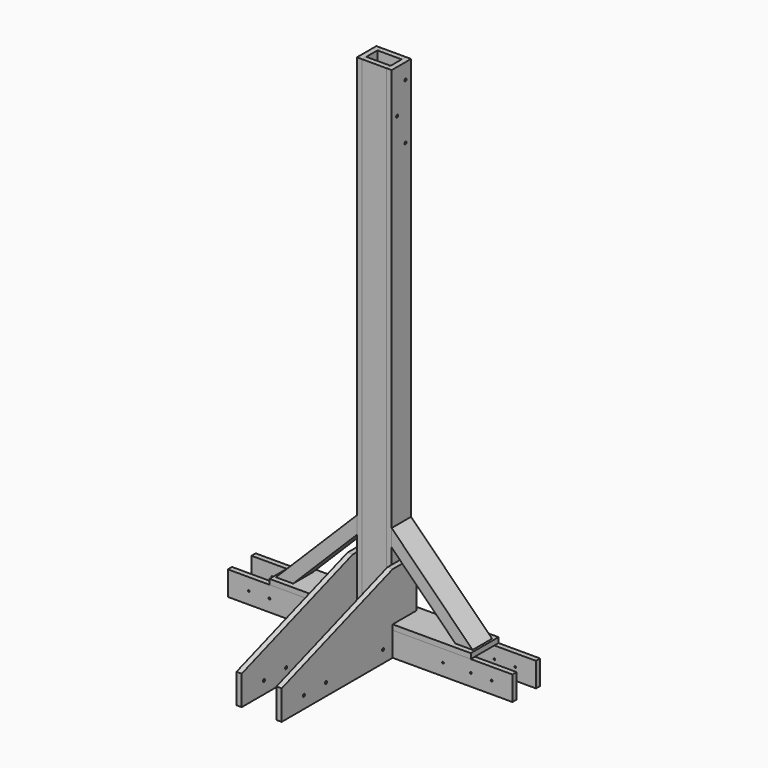
from build123d import *

# Parameters (mm, degrees)
F0_W          = 88.9
F0_H          = 19.05
F1_DEPTH      = 1879.6
F2_W          = 19.05
F2_H          = 88.9
F3_DEPTH      = 1879.6
F4_W          = 1041.4
F4_H          = 19.05
F5_DEPTH      = 88.9
F6_W          = 304.8
F6_H          = 127
F7_DEPTH      = 19.05
F9_DEPTH      = 44.45
F9_DEPTH_BACK = 44.45
F11_DEPTH     = 19.05
F13_DEPTH     = 19.05
F14_R         = 3.175
F15_DEPTH     = 127.001
F16_R         = 3.175
F17_DEPTH     = 635.001
F18_R         = 4.7625
F19_DEPTH     = 603.251
F20_R         = 4.7625
F21_DEPTH     = 25.4
F22_R         = 4.7625
F23_DEPTH     = 25.4
F24_R         = 4.7625
F25_DEPTH     = 25.4


with BuildPart() as f1:
    # F0 (on Top) → F1 (new body)
    with BuildSketch(Plane.XY):
        with Locations((0, 34.925)):
            Rectangle(F0_W, F0_H)
    extrude(amount=F1_DEPTH)

    # F16 (on face) → F17 (cut, through all)
    with BuildSketch(Plane(origin=(0, 63.5, 0), x_dir=(-1, 0, 0), z_dir=(0, 1, 0))):
        with Locations((-444.5, 44.45)):
            Circle(F16_R)
        with Locations((-368.3, 44.45)):
            Circle(F16_R)
        with Locations((-266.7, 44.45)):
            Circle(F16_R)
        with Locations((266.7, 44.45)):
            Circle(F16_R)
        with Locations((368.3, 44.45)):
            Circle(F16_R)
        with Locations((444.5, 44.45)):
            Circle(F16_R)
    extrude(amount=-F17_DEPTH, mode=Mode.SUBTRACT)

    # F20 (on face) → F21 (cut)
    with BuildSketch(Plane(origin=(-82.55, 0, 0), x_dir=(0, -1, 0), z_dir=(-1, 0, 0))):
        with Locations((107.95, 44.45)):
            Circle(F20_R)
        with Locations((368.3, 44.45)):
            Circle(F20_R)
        with Locations((469.9, 44.45)):
            Circle(F20_R)
    extrude(amount=-F21_DEPTH, mode=Mode.SUBTRACT)


with BuildPart() as f1b:
    # F0 (on Top) → F1, piece 2 (new body)
    with BuildSketch(Plane.XY):
        with Locations((0, -34.925)):
            Rectangle(F0_W, F0_H)
    extrude(amount=F1_DEPTH)


with BuildPart() as f3:
    # F2 (on Top) → F3 (new body)
    with BuildSketch(Plane.XY):
        with Locations((53.975, 0)):
            Rectangle(F2_W, F2_H)
    extrude(amount=F3_DEPTH)

    # F22 (on face) → F23 (cut)
    with BuildSketch(Plane.YZ.offset(63.5)):
        with Locations((19.05, 1822.45)):
            Circle(F22_R)
        with Locations((-19.05, 1720.85)):
            Circle(F22_R)
        with Locations((19.05, 1619.25)):
            Circle(F22_R)
    extrude(amount=-F23_DEPTH, mode=Mode.SUBTRACT)


with BuildPart() as f3b:
    # F2 (on Top) → F3, piece 2 (new body)
    with BuildSketch(Plane.XY):
        with Locations((-53.975, 0)):
            Rectangle(F2_W, F2_H)
    extrude(amount=F3_DEPTH)

    # F24 (on face) → F25 (cut)
    with BuildSketch(Plane(origin=(-63.5, 0, 0), x_dir=(0, -1, 0), z_dir=(-1, 0, 0))):
        with Locations((-19.05, 1822.45)):
            Circle(F24_R)
        with Locations((19.05, 1720.85)):
            Circle(F24_R)
        with Locations((-19.05, 1619.25)):
            Circle(F24_R)
    extrude(amount=-F25_DEPTH, mode=Mode.SUBTRACT)


with BuildPart() as f5:
    # F4 (on Top) → F5 (new body)
    with BuildSketch(Plane.XY):
        with Locations((0, 53.975)):
            Rectangle(F4_W, F4_H)
    extrude(amount=F5_DEPTH)


with BuildPart() as f5b:
    # F4 (on Top) → F5, piece 2 (new body)
    with BuildSketch(Plane.XY):
        with Locations((0, -53.975)):
            Rectangle(F4_W, F4_H)
    extrude(amount=F5_DEPTH)


with BuildPart() as f7:
    # F6 (on face) → F7 (new body)
    with BuildSketch(Plane.XY.offset(88.9)):
        with Locations((-215.9, 0)):
            Rectangle(F6_W, F6_H)
    extrude(amount=F7_DEPTH)


with BuildPart() as f7b:
    # F6 (on face) → F7, piece 2 (new body)
    with BuildSketch(Plane.XY.offset(88.9)):
        with Locations((215.9, 0)):
            Rectangle(F6_W, F6_H)
    extrude(amount=F7_DEPTH)


with BuildPart() as f9:
    # F8 (on Front) → F9 (new body, two sides)
    with BuildSketch(Plane.XZ) as f9_sk:
        Polygon((-63.5, 404.2984519953), (-359.8484519953, 107.95), (-296.9866591478, 107.95), (-63.5, 341.4366591478), align=None)
    extrude(amount=F9_DEPTH)
    extrude(f9_sk.sketch, amount=-F9_DEPTH_BACK)


with BuildPart() as f9b:
    # F8 (on Front) → F9, piece 2 (new body, two sides)
    with BuildSketch(Plane.XZ) as f9_2_sk:
        Polygon((359.8484519953, 107.95), (63.5, 404.2984519953), (63.5, 341.4366591478), (296.9866591478, 107.95), align=None)
    extrude(amount=F9_DEPTH)
    extrude(f9_2_sk.sketch, amount=-F9_DEPTH_BACK)


with BuildPart() as f11:
    # F10 (on face) → F11 (new body)
    with BuildSketch(Plane(origin=(-63.5, 0, 0), x_dir=(0, -1, 0), z_dir=(-1, 0, 0))):
        Polygon((-44.45, 285.75), (-44.45, 107.95), (63.5, 107.95), (63.5, 0), (571.5, 0), (571.5, 107.95), (63.5, 285.75), align=None)
    extrude(amount=F11_DEPTH)


with BuildPart() as f13:
    # F12 (on face) → F13 (new body)
    with BuildSketch(Plane.YZ.offset(63.5)):
        Polygon((-63.5, 0), (-63.5, 107.95), (44.45, 107.95), (44.45, 285.75), (-63.5, 285.75), (-571.5, 107.95), (-571.5, 0), align=None)
    extrude(amount=F13_DEPTH)


with BuildPart() as f15_tool:
    # F14 (on face) → F15 (new body, through all)
    with BuildSketch(Plane.XZ.offset(63.5)):
        with Locations((266.7, 44.45)):
            Circle(F14_R)
        with Locations((368.3, 44.45)):
            Circle(F14_R)
        with Locations((444.5, 44.45)):
            Circle(F14_R)
        with Locations((-444.5, 44.45)):
            Circle(F14_R)
        with Locations((-368.3, 44.45)):
            Circle(F14_R)
        with Locations((-266.7, 44.45)):
            Circle(F14_R)
    extrude(amount=-F15_DEPTH)


with BuildPart() as f5_1:
    add(f5.part)

    # F15: cut by f15_tool
    add(f15_tool.part, mode=Mode.SUBTRACT)


with BuildPart() as f5b_1:
    add(f5b.part)

    # F15: cut by f15_tool
    add(f15_tool.part, mode=Mode.SUBTRACT)


with BuildPart() as f19_tool:
    # F18 (on face) → F19 (new body, through all)
    with BuildSketch(Plane.YZ.offset(82.55)):
        with Locations((-107.95, 44.45)):
            Circle(F18_R)
        with Locations((-368.3, 44.45)):
            Circle(F18_R)
        with Locations((-469.9, 44.45)):
            Circle(F18_R)
    extrude(amount=-F19_DEPTH)


with BuildPart() as f11_1:
    add(f11.part)

    # F19: cut by f19_tool
    add(f19_tool.part, mode=Mode.SUBTRACT)


with BuildPart() as f13_1:
    add(f13.part)

    # F19: cut by f19_tool
    add(f19_tool.part, mode=Mode.SUBTRACT)


solid = Compound([f1.part, f1b.part, f3.part, f3b.part, f7.part, f7b.part, f9.part, f9b.part, f5_1.part, f5b_1.part, f11_1.part, f13_1.part])
